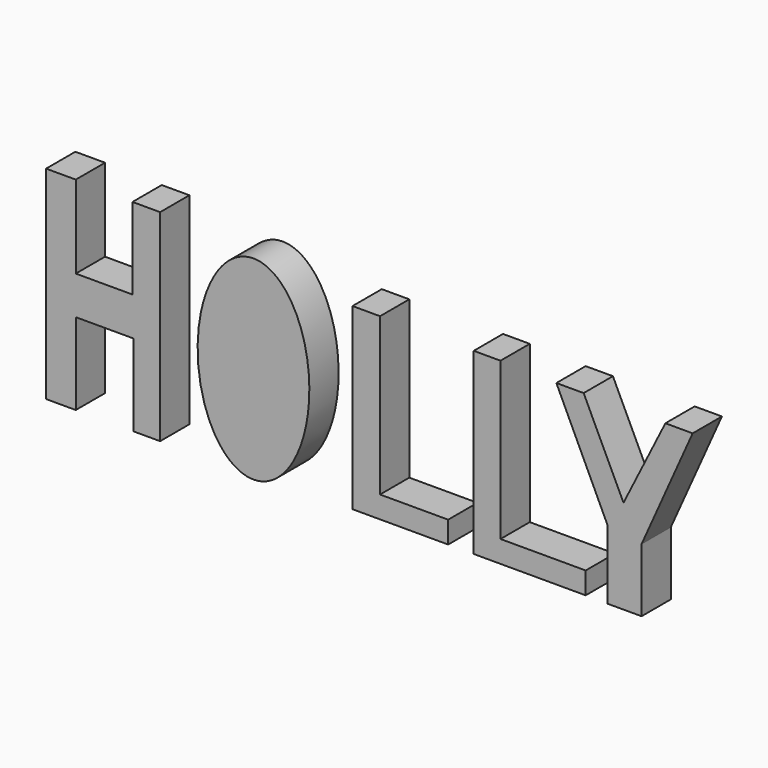
from build123d import *

# Parameters (mm, degrees)
F2_DEPTH = 10
F3_DEPTH = 10
F4_DEPTH = 10
F5_DEPTH = 10
F6_DEPTH = 10


with BuildPart() as f2:
    # F1 (on Front) → F2 (new body)
    with BuildSketch(Plane.XZ):
        Polygon((130.630046, 67.656249), (130.630046, 24.410279), (130.630046, 18.755037), (161.234885, 18.755037), (161.234885, 24.742944), (137.948602, 24.742944), (137.948602, 67.656249), align=None)
    extrude(amount=F2_DEPTH)


with BuildPart() as f3:
    # F0 (on Front) → F3 (new body)
    with BuildSketch(Plane.XZ):
        Polygon((37.341982, 50.864272), (21.837456, 50.864272), (21.837456, 73.483326), (13.71986, 73.483326), (13.71986, 18.021887), (21.837456, 18.021887), (21.837456, 40.377587), (37.674643, 40.377587), (37.674643, 18.021887), (44.896193, 18.021887), (44.896193, 73.150665), (37.341982, 73.150665), align=None)
    extrude(amount=F3_DEPTH)


with BuildPart() as f4:
    # F1 (on Front) → F4 (new body)
    with BuildSketch(Plane.XZ):
        Polygon((97.493097, 67.656249), (97.493097, 18.755037), (123.644158, 18.755037), (123.644158, 24.742944), (105.015129, 24.742944), (105.015129, 67.656249), align=None)
    extrude(amount=F4_DEPTH)


with BuildPart() as f5:
    # F1 (on Front) → F5 (new body)
    with BuildSketch(Plane.XZ):
        with BuildLine():
            add(Edge.make_bspline(
                [(70.41835, 70.31754), (43.964953, 70.31754), (57.191652, 30.398184), (70.41835, -9.521171), (83.645049, 30.398184), (96.871748, 70.31754), (70.41835, 70.31754)],
                knots=[0, 0, 0, 2.094395, 2.094395, 4.18879, 4.18879, 6.283185, 6.283185, 6.283185], degree=2, weights=[1, 0.5, 1, 0.5, 1, 0.5, 1]))
        make_face()
    extrude(amount=F5_DEPTH)


with BuildPart() as f6:
    # F1 (on Front) → F6 (new body)
    with BuildSketch(Plane.XZ):
        Polygon((160.683546, 67.259666), (153.22718, 67.259666), (167.198956, 37.622557), (167.198956, 18.691117), (176.513448, 18.691117), (176.513448, 36.053427), (190.485239, 67.259666), (183.028874, 67.259666), (171.574533, 44.400018), align=None)
    extrude(amount=F6_DEPTH)


solid = Compound([f2.part, f3.part, f4.part, f5.part, f6.part])
